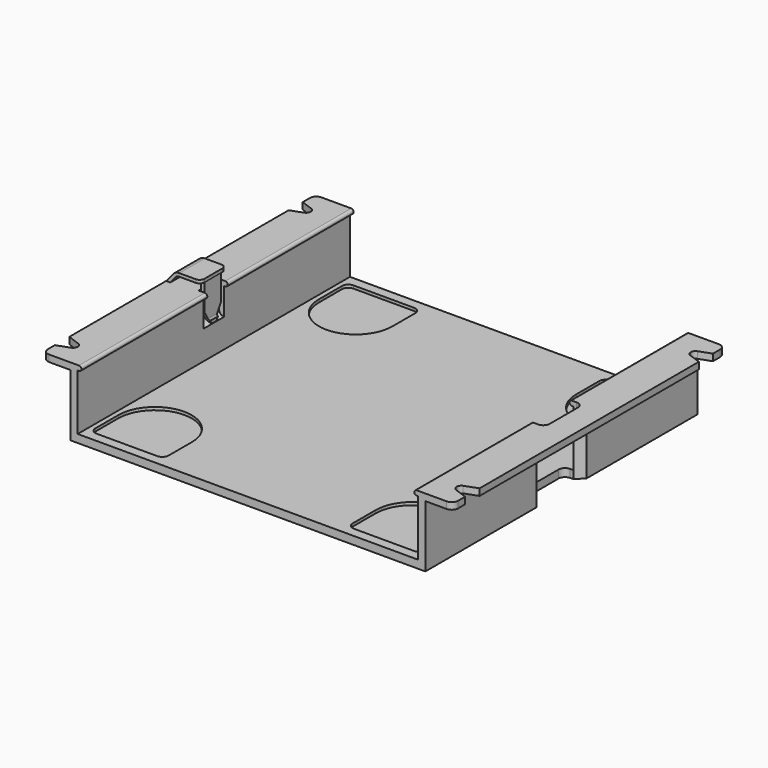
from build123d import *

# Parameters (mm, degrees)
PAD003_DEPTH    = 5
PAD_DEPTH       = 3.25
POCKET012_DEPTH = 54.7
FILLET_R        = 1.5
PAD004_DEPTH    = 19.4
PAD005_DEPTH    = 2.1
PAD001_DEPTH    = 53.3
PAD002_DEPTH    = 53.3
POCKET_DEPTH    = 17.8
POCKET001_DEPTH = 5
POCKET011_DEPTH = 4
FILLET001_R     = 2


with BuildPart() as body:
    # Sketch025 → Pad003 (new body, symmetric)
    with BuildSketch(Plane.XZ):
        with BuildLine():
            Line((-64.25, 2.1), (-62.062493, 4.706969))
            ThreePointArc((-60.147382, 5.6), (-61.203928, 5.365769), (-62.062493, 4.706969))
            Line((-60.147382, 5.6), (-53.45, 5.6))
            Line((-53.45, 5.6), (-53.45, 4.6))
            Line((-53.45, 4.6), (-53.7, 4.6))
            Line((-54.7, 4.6), (-53.7, 4.6))
            Line((-54.7, 4.6), (-60.263959, 4.6))
            ThreePointArc((-60.263959, 4.6), (-60.792232, 4.482885), (-61.221515, 4.153485))
            Line((-61.221515, 4.153485), (-62.944593, 2.1))
            Line((-64.25, 2.1), (-62.944593, 2.1))
        make_face()
    extrude(amount=PAD003_DEPTH, both=True)

    # Sketch028 → Pad (join, symmetric)
    with BuildSketch(Plane.XZ):
        with BuildLine():
            Line((-53.7, 3.1), (-53.7, -6.209252))
            ThreePointArc((-53.7, -6.209252), (-53.653109, -6.384252), (-53.525, -6.512361))
            Line((-53.2, -6.7), (-53.525, -6.512361))
            Line((-53.2, -7.7), (-53.2, -6.7))
            ThreePointArc((-54.7, -6.103128), (-54.26619, -7.198573), (-53.2, -7.7))
            Line((-54.7, 3.1), (-54.7, -6.103128))
            Line((-54.7, 3.1), (-54.7, 4.6))
            Line((-54.7, 4.6), (-53.7, 4.6))
            Line((-53.7, 3.1), (-53.7, 4.6))
        make_face()
    extrude(amount=PAD_DEPTH, both=True)

    # Sketch027 → Pocket012 (cut)
    with BuildSketch(Plane.YZ):
        Polygon((3.25, -3.7), (0.940599, -7.7), (3.25, -7.7), align=None)
    pocket012 = extrude(amount=-POCKET012_DEPTH, mode=Mode.SUBTRACT)

    # Mirrored001: Pocket012 across Sketch027 V_Axis
    add(pocket012.mirror(Plane(origin=(0, 0, 0), x_dir=(1, 0, 0), z_dir=(0, 1, 0))), mode=Mode.SUBTRACT)

    # Fillet
    fillet_edges = [body.edges().sort_by_distance(p)[0] for p in [
        (-53.45, -5, 5.1),
        (-53.45, 5, 5.1),
    ]]
    fillet(fillet_edges, radius=FILLET_R)


with BuildPart() as body002:
    # Sketch011 → Pad004 (new body)
    with BuildSketch(Plane.XY):
        with BuildLine():
            Line((50.3, 5.5), (50.3, -5.5))
            ThreePointArc((50.3, -5.5), (50.885786, -6.914214), (52.3, -7.5))
            Line((53.3, -7.5), (52.3, -7.5))
            Line((53.3, -7.5), (55.6, -9.8))
            Line((55.6, 9.8), (55.6, -9.8))
            Line((53.3, 7.5), (55.6, 9.8))
            Line((52.3, 7.5), (53.3, 7.5))
            ThreePointArc((52.3, 7.5), (50.885786, 6.914214), (50.3, 5.5))
        make_face()
    extrude(amount=-PAD004_DEPTH)

    # Sketch029 → Pad005 (join)
    with BuildSketch(Plane.XY):
        with BuildLine():
            Line((50.3, 5.5), (50.3, -5.5))
            ThreePointArc((50.3, -5.5), (50.885786, -6.914214), (52.3, -7.5))
            Line((53.3, -7.5), (52.3, -7.5))
            Line((53.3, -7.5), (54.3, -7.5))
            ThreePointArc((54.3, -7.5), (55.714214, -6.914214), (56.3, -5.5))
            Line((56.3, 5.5), (56.3, -5.5))
            ThreePointArc((56.3, 5.5), (55.714214, 6.914214), (54.3, 7.5))
            Line((53.3, 7.5), (54.3, 7.5))
            Line((52.3, 7.5), (53.3, 7.5))
            ThreePointArc((52.3, 7.5), (50.885786, 6.914214), (50.3, 5.5))
        make_face()
    extrude(amount=PAD005_DEPTH)


with BuildPart() as obj1:
    # Sketch001 → Pad001 (new body, symmetric)
    with BuildSketch(Plane.XZ):
        Polygon((64.25, 0), (55.6, 0), (55.6, -19.4), (-55.6, -19.4), (-55.6, 0), (-64.25, 0), (-64.25, 2.1), (-53.3, 2.1), (-53.3, -16.9), (0, -16.9), (53.3, -16.9), (53.3, 2.1), (64.25, 2.1), align=None)
    extrude(amount=PAD001_DEPTH, both=True)

    # Sketch002 → Pad002 (join, symmetric)
    with BuildSketch(Plane.XZ):
        with BuildLine():
            ThreePointArc((52.9, 2.1), (52.15, 1.35), (52.9, 0.6))
            Line((53.3, 0.6), (52.9, 0.6))
            Line((53.3, 2.1), (53.3, 0.6))
            Line((53.3, 2.1), (52.9, 2.1))
        make_face()
    pad002 = extrude(amount=PAD002_DEPTH, both=True)

    # Sketch003 → Pocket (cut)
    with BuildSketch(Plane.XY):
        with BuildLine():
            ThreePointArc((28.8, 39.3), (40.3, 27.8), (51.8, 39.3))
            Line((51.8, 39.3), (51.8, 48.3))
            ThreePointArc((51.8, 48.3), (51.214214, 49.714214), (49.8, 50.3))
            Line((30.8, 50.3), (49.8, 50.3))
            ThreePointArc((30.8, 50.3), (29.385786, 49.714214), (28.8, 48.3))
            Line((28.8, 39.3), (28.8, 48.3))
        make_face()
        with BuildLine():
            ThreePointArc((51.8, -39.3), (40.3, -27.8), (28.8, -39.3))
            Line((28.8, -39.3), (28.8, -48.3))
            ThreePointArc((28.8, -48.3), (29.385786, -49.714214), (30.8, -50.3))
            Line((30.8, -50.3), (49.8, -50.3))
            ThreePointArc((49.8, -50.3), (51.214214, -49.714214), (51.8, -48.3))
            Line((51.8, -39.3), (51.8, -48.3))
        make_face()
    pocket = extrude(amount=-POCKET_DEPTH, mode=Mode.SUBTRACT)

    # Sketch004 → Pocket001 (cut)
    with BuildSketch(Plane.XY):
        with BuildLine():
            ThreePointArc((59.35, -45.8), (59.603187, -46.603007), (60.271172, -47.11557))
            Line((60.271172, -47.11557), (64.25, -48.563745))
            Line((64.25, -42.886255), (64.25, -48.563745))
            Line((60.271172, -44.33443), (64.25, -42.886255))
            ThreePointArc((60.271172, -44.33443), (59.603187, -44.846993), (59.35, -45.65))
            Line((59.35, -45.65), (59.35, -45.8))
        make_face()
        with BuildLine():
            ThreePointArc((60.471172, 47.11557), (59.803187, 46.603007), (59.55, 45.8))
            Line((59.55, 45.8), (59.55, 45.65))
            ThreePointArc((59.55, 45.65), (59.803187, 44.846993), (60.471172, 44.33443))
            Line((60.471172, 44.33443), (64.25, 42.959049))
            Line((64.25, 48.490951), (64.25, 42.959049))
            Line((60.471172, 47.11557), (64.25, 48.490951))
        make_face()
    pocket001 = extrude(amount=POCKET001_DEPTH, mode=Mode.SUBTRACT)

    # Mirrored: Pad002, Pocket, Pocket001 across Sketch002 V_Axis
    add(pad002.mirror(Plane(origin=(0, 0, 0), x_dir=(0, -1, 0), z_dir=(1, 0, 0))))
    add(pocket.mirror(Plane(origin=(0, 0, 0), x_dir=(0, -1, 0), z_dir=(1, 0, 0))), mode=Mode.SUBTRACT)
    add(pocket001.mirror(Plane(origin=(0, 0, 0), x_dir=(0, -1, 0), z_dir=(1, 0, 0))), mode=Mode.SUBTRACT)

    # Sketch024 → Pocket011 (cut, symmetric)
    with BuildSketch(Plane.XZ):
        with BuildLine():
            Line((-54.9, 3), (-54.9, -6.248633))
            ThreePointArc((-54.9, -6.248633), (-54.463, -7.367173), (-53.383476, -7.893225))
            Line((-53.383476, -7.893225), (-53.3, -7.9))
            Line((-51.9, 3), (-53.3, -7.9))
            Line((-54.9, 3), (-51.9, 3))
        make_face()
    extrude(amount=POCKET011_DEPTH, both=True, mode=Mode.SUBTRACT)

    # Boolean: union Body
    add(body.part)

    # Boolean001: cut Body002
    add(body002.part, mode=Mode.SUBTRACT)

    # Fillet001
    fillet001_edges = [obj1.edges().sort_by_distance(p)[0] for p in [
        (64.25, -53.3, 1.05),
        (64.25, 53.3, 1.05),
        (-64.25, -53.3, 1.05),
        (-64.25, 53.3, 1.05),
    ]]
    fillet(fillet001_edges, radius=FILLET001_R)


solid = obj1.part
